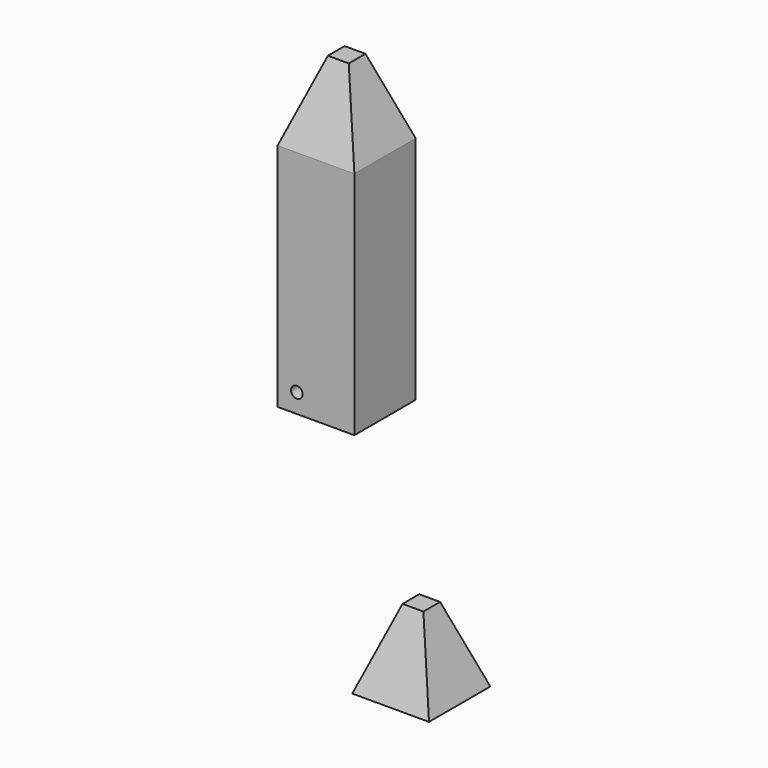
from build123d import *

# Parameters (mm, degrees)
F0_W     = 10
F0_H     = 10
F1_DEPTH = 30
F2_W     = 10
F2_H     = 10
F3_DEPTH = 10
F3_TAPER = 20
F4_R     = 0.75
F5_DEPTH = 25
F6_W     = 10
F6_H     = 10
F7_DEPTH = 10
F7_TAPER = 20


with BuildPart() as f1:
    # F0 (on Top) → F1 (new body)
    with BuildSketch(Plane.XY):
        with Locations((-24.6569485217, 5)):
            Rectangle(F0_W, F0_H)
    extrude(amount=F1_DEPTH)

    # F4 (on face) → F5 (cut)
    with BuildSketch(Plane.XZ):
        with Locations((-27.1569485217, 2.5)):
            Circle(F4_R)
    extrude(amount=-F5_DEPTH, mode=Mode.SUBTRACT)

    # F6 (on face) → F7 (join)
    with BuildSketch(Plane.XY.offset(30)):
        with Locations((-24.6569485217, 5)):
            Rectangle(F6_W, F6_H)
    extrude(amount=F7_DEPTH, taper=F7_TAPER)


with BuildPart() as f3:
    # F2 (on Top) → F3 (new body)
    with BuildSketch(Plane.XY):
        with Locations((20.7480721921, -39.5969700813)):
            Rectangle(F2_W, F2_H)
    extrude(amount=F3_DEPTH, taper=F3_TAPER)


solid = Compound([f1.part, f3.part])
